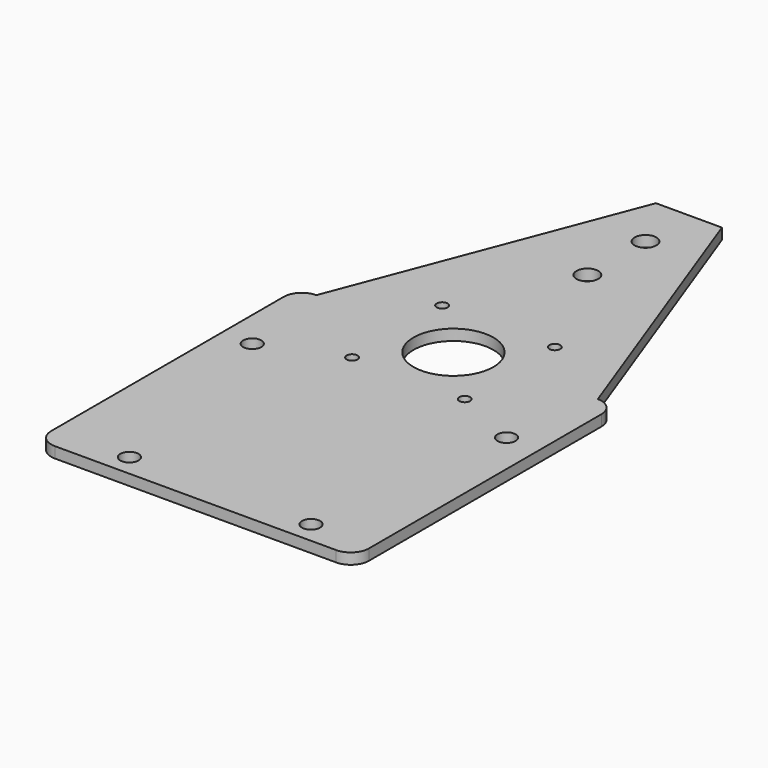
from build123d import *

# Parameters (mm, degrees)
F0_R     = 2.5
F0_R_2   = 1.5
F0_R_3   = 11
F0_R_4   = 3
F1_DEPTH = 3


with BuildPart() as f1:
    # F0 (on Top) → F1 (new body)
    with BuildSketch(Plane.XY):
        with BuildLine():
            Line((-48.422295, -70.076307), (29.060322, -70.076307))
            ThreePointArc((29.060322, -70.076307), (32.595856, -68.611841), (34.060322, -65.076307))
            Line((34.060322, -65.076307), (34.060322, 14.923693))
            ThreePointArc((34.060322, 14.923693), (32.595856, 18.459226), (29.060322, 19.923693))
            Line((29.060322, 19.923693), (0, 98.959506))
            Line((0, 98.959506), (-18.166697, 98.959506))
            Line((-18.166697, 98.959506), (-48.422295, 19.923693))
            ThreePointArc((-48.422295, 19.923693), (-51.957828, 18.459226), (-53.422295, 14.923693))
            Line((-53.422295, 14.923693), (-53.422295, -65.076307))
            ThreePointArc((-53.422295, -65.076307), (-51.957828, -68.611841), (-48.422295, -70.076307))
        make_face()
        with Locations((-32.677192, -64.076307)):
            Circle(F0_R, mode=Mode.SUBTRACT)
        with Locations((-45.05799, -6.326307)):
            Circle(F0_R, mode=Mode.SUBTRACT)
        with Locations((-24.306103, 2.083096)):
            Circle(F0_R_2, mode=Mode.SUBTRACT)
        with Locations((17.322808, -64.076307)):
            Circle(F0_R, mode=Mode.SUBTRACT)
        with Locations((6.693897, 2.083096)):
            Circle(F0_R_2, mode=Mode.SUBTRACT)
        with Locations((24.94201, -6.326307)):
            Circle(F0_R, mode=Mode.SUBTRACT)
        with Locations((-24.306103, 33.083096)):
            Circle(F0_R_2, mode=Mode.SUBTRACT)
        with Locations((-8.806103, 17.583096)):
            Circle(F0_R_3, mode=Mode.SUBTRACT)
        with Locations((6.693897, 33.083096)):
            Circle(F0_R_2, mode=Mode.SUBTRACT)
        with Locations((-8.806103, 63.673693)):
            Circle(F0_R_4, mode=Mode.SUBTRACT)
        with Locations((-8.806103, 83.673693)):
            Circle(F0_R_4, mode=Mode.SUBTRACT)
    extrude(amount=F1_DEPTH)


solid = f1.part
